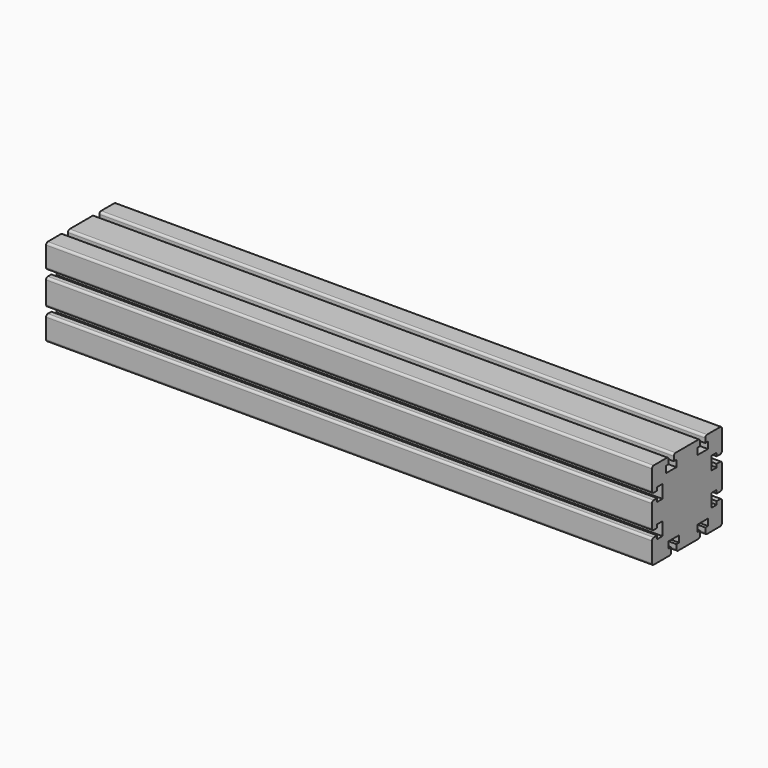
from build123d import *

# Parameters (mm, degrees)
F1_DEPTH = 554
F2_R     = 2


with BuildPart() as f1:
    # F0 (on Right) → F1 (new body)
    with BuildSketch(Plane.YZ):
        Polygon((-21, 40), (-40, 40), (-40, 18), (-34, 18), (-34, 21), (-28, 21), (-28, 9), (-34, 9), (-34, 12), (-40, 12), (-40, -12), (-34, -12), (-34, -9), (-28, -9), (-28, -21), (-34, -21), (-34, -18), (-40, -18), (-40, -40), (-18, -40), (-18, -34), (-21, -34), (-21, -28), (-9, -28), (-9, -34), (-12, -34), (-12, -40), (15, -40), (15, -34), (12, -34), (12, -28), (24, -28), (24, -34), (21, -34), (21, -40), (40, -40), (40, -18), (34, -18), (34, -21), (28, -21), (28, -9), (34, -9), (34, -12), (40, -12), (40, 12), (34, 12), (34, 9), (28, 9), (28, 21), (34, 21), (34, 18), (40, 18), (40, 40), (21, 40), (21, 34), (24, 34), (24, 28), (12, 28), (12, 34), (15, 34), (15, 40), (-15, 40), (-15, 34), (-12, 34), (-12, 28), (-24, 28), (-24, 34), (-21, 34), align=None)
    extrude(amount=F1_DEPTH)

    # F2
    f2_edges = [f1.edges().sort_by_distance(p)[0] for p in [
        (277, 40, 40),
        (277, 40, -40),
        (277, -40, 40),
        (277, -40, -40),
        (277, -40, -18),
        (277, -40, -12),
        (277, -40, 12),
        (277, -40, 18),
        (277, 21, 40),
        (277, 15, 40),
        (277, -15, 40),
        (277, -21, 40),
        (277, 40, 18),
        (277, 40, 12),
        (277, 40, -12),
        (277, 40, -18),
        (277, 21, -40),
        (277, 15, -40),
        (277, -12, -40),
        (277, -18, -40),
    ]]
    fillet(f2_edges, radius=F2_R)


solid = f1.part
